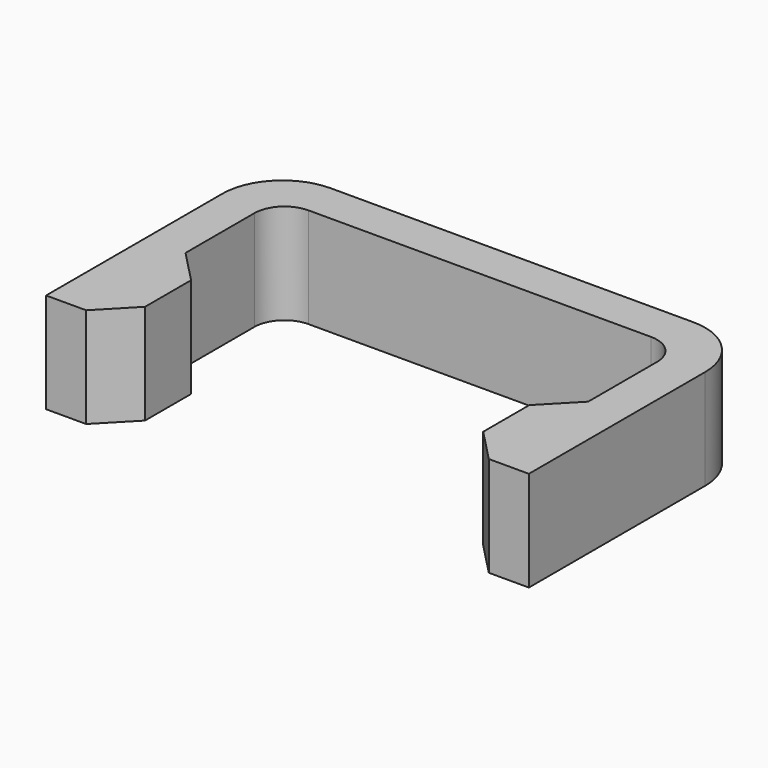
from build123d import *

# Parameters (mm, degrees)
PAD_DEPTH    = 5
CHAMFER_SIZE = 2
FILLET_R     = 1.5
FILLET001_R  = 3


with BuildPart() as part:
    # Sketch → Pad (new body)
    with BuildSketch(Plane.XY):
        Polygon((0, 0), (0, 14), (24.1, 14), (24.1, 0), (22.1, 0), (19.1, 3.1), (22.1, 6.2), (22.1, 12), (2, 12), (2, 6.2), (5, 3.1), (2, 0), align=None)
    extrude(amount=PAD_DEPTH)

    # Chamfer
    chamfer_edges = [part.edges().sort_by_distance(p)[0] for p in [
        (5, 3.1, 2.5),
        (19.1, 3.1, 2.5),
    ]]
    chamfer(chamfer_edges, length=CHAMFER_SIZE)

    # Fillet
    fillet_edges = [part.edges().sort_by_distance(p)[0] for p in [
        (2, 12, 2.5),
        (22.1, 12, 2.5),
    ]]
    fillet(fillet_edges, radius=FILLET_R)

    # Fillet001
    fillet001_edges = [part.edges().sort_by_distance(p)[0] for p in [
        (0, 14, 2.5),
        (24.1, 14, 2.5),
    ]]
    fillet(fillet001_edges, radius=FILLET001_R)


solid = part.part
